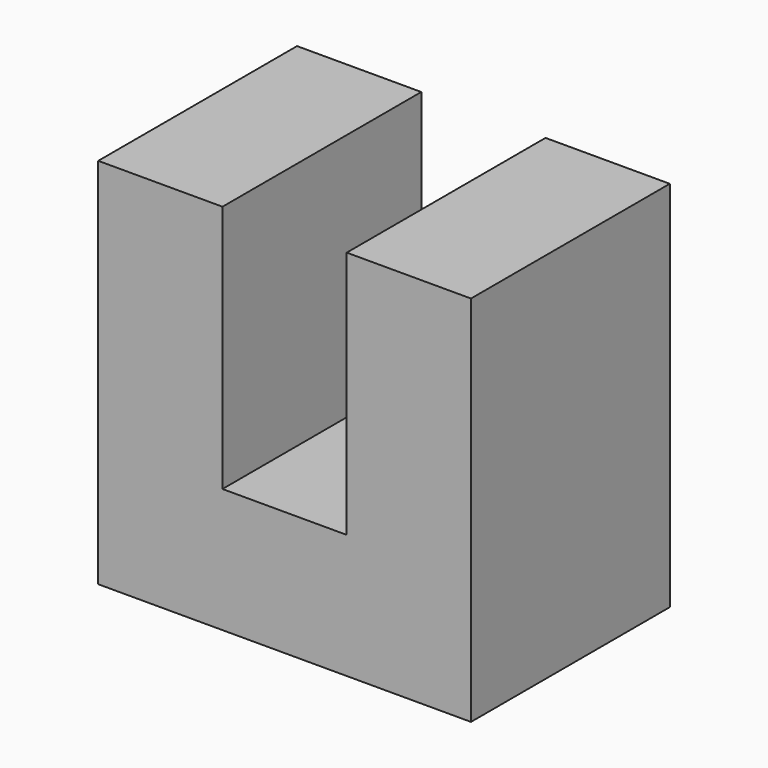
from build123d import *

# Parameters (mm, degrees)
F1_DEPTH = 50.8


with BuildPart() as f1:
    # F0 (on Front) → F1 (new body)
    with BuildSketch(Plane.XZ):
        Polygon((-36.385965, 0), (39.814035, 0), (39.814035, 76.2), (14.414035, 76.2), (14.414035, 25.4), (-10.985965, 25.4), (-10.985965, 76.2), (-36.385965, 76.2), (-36.385965, 50.8), align=None)
    extrude(amount=-F1_DEPTH)


solid = f1.part
